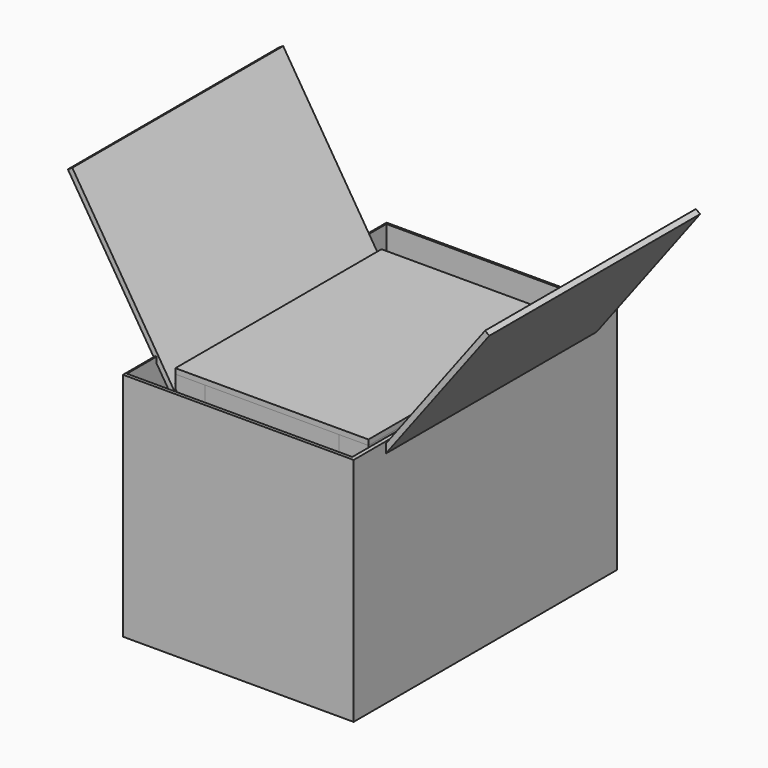
from build123d import *

# Parameters (mm, degrees)
BOX008_W               = 492
BOX008_H               = 342
BOX008_DEPTH           = 350
BOX007_W               = 500
BOX007_H               = 350
BOX007_DEPTH           = 350
CUT001_PLACEMENT_ANGLE = 90
BOX010_W               = 300
BOX010_H               = 400
BOX010_DEPTH           = 8
BOX010_PLACEMENT_ANGLE = 238
BOX012_W               = 293
BOX012_H               = 391
BOX012_DEPTH           = 8
BOX011_W               = 300
BOX011_H               = 400
BOX011_DEPTH           = 8
BOX011_PLACEMENT_ANGLE = 53
BOX017_W               = 18
BOX017_H               = 7
BOX017_DEPTH           = 16
BOX017_ROLL_ANGLE      = 45
BOX017_PLACEMENT_ANGLE = 90
BOX018_W               = 18
BOX018_H               = 7
BOX018_DEPTH           = 16
BOX018_ROLL_ANGLE      = 45
BOX018_PLACEMENT_ANGLE = 90
BOX019_W               = 18
BOX019_H               = 7
BOX019_DEPTH           = 16
BOX019_ROLL_ANGLE      = -29.799946
BOX019_PITCH_ANGLE     = 0.013011
BOX019_PLACEMENT_ANGLE = 90.048898
BOX020_W               = 18
BOX020_H               = 7
BOX020_DEPTH           = 16
BOX020_ROLL_ANGLE      = -30
BOX020_PLACEMENT_ANGLE = 90
BOX021_W               = 45
BOX021_H               = 25
BOX021_DEPTH           = 391
BOX022_W               = 45
BOX022_H               = 25
BOX022_DEPTH           = 392
BOX023_W               = 45
BOX023_H               = 25
BOX023_DEPTH           = 203
BOX024_W               = 45
BOX024_H               = 25
BOX024_DEPTH           = 203
BOX025_W               = 393
BOX025_H               = 293
BOX025_DEPTH           = 324
BOX_W                  = 400
BOX_H                  = 300
BOX_DEPTH              = 300
CUT_PLACEMENT_ANGLE    = 90


with BuildPart() as cubo008:
    # Box008 → Box008 (new body)
    with BuildSketch(Plane(origin=(3, -358, 599), x_dir=(1, 0, 0), z_dir=(0, 0, 1))):
        with Locations((246, 171)):
            Rectangle(BOX008_W, BOX008_H)
    extrude(amount=BOX008_DEPTH)


with BuildPart() as obj1:
    # Box007 → Box007 (new body)
    with BuildSketch(Plane(origin=(0, -360, 593), x_dir=(1, 0, 0), z_dir=(0, 0, 1))):
        with Locations((250, 175)):
            Rectangle(BOX007_W, BOX007_H)
    extrude(amount=BOX007_DEPTH)

    # Cut001: cut Cubo008
    add(cubo008.part, mode=Mode.SUBTRACT)


with BuildPart() as obj1_1:
    # Cut001 placement: moved
    add(obj1.part.moved(Location((375.7, 556, -546))).rotate(Axis((375.7, 556, -546), (0, 0, -1)), CUT001_PLACEMENT_ANGLE))


with BuildPart() as obj2:
    # Box010 → Box010 (new body)
    with BuildSketch(Plane.XY):
        with Locations((150, 200)):
            Rectangle(BOX010_W, BOX010_H)
    extrude(amount=BOX010_DEPTH)


with BuildPart() as obj2_1:
    # Box010 placement: moved
    add(obj2.part.moved(Location((48.98, 117, 353.41))).rotate(Axis((48.98, 117, 353.41), (0, 1, 0)), BOX010_PLACEMENT_ANGLE))


with BuildPart() as cristal:
    # Box012 → Box012 (new body)
    with BuildSketch(Plane(origin=(44, 120, 381), x_dir=(1, 0, 0), z_dir=(0, 0, 1))):
        with Locations((146.5, 195.5)):
            Rectangle(BOX012_W, BOX012_H)
    extrude(amount=BOX012_DEPTH)


with BuildPart() as obj3:
    # Box011 → Box011 (new body)
    with BuildSketch(Plane.XY):
        with Locations((150, 200)):
            Rectangle(BOX011_W, BOX011_H)
    extrude(amount=BOX011_DEPTH)


with BuildPart() as obj3_1:
    # Box011 placement: moved
    add(obj3.part.moved(Location((342.23807, 117, 349.564637))).rotate(Axis((342.23807, 117, 349.564637), (0, -1, 0)), BOX011_PLACEMENT_ANGLE))


with BuildPart() as obj4:
    # Box017 → Box017 (new body)
    with BuildSketch(Plane.XY):
        with Locations((9, 3.5)):
            Rectangle(BOX017_W, BOX017_H)
    extrude(amount=BOX017_DEPTH)


with BuildPart() as obj4_1:
    # Box017 roll: moved
    add(obj4.part.rotate(Axis((0, 0, 0), (1, 0, 0)), BOX017_ROLL_ANGLE))


with BuildPart() as obj4_2:
    # Box017 placement: moved
    add(obj4_1.part.moved(Location((336.380744, 123, 350.588312))).rotate(Axis((336.380744, 123, 350.588312), (0, 0, 1)), BOX017_PLACEMENT_ANGLE))


with BuildPart() as obj5:
    # Box018 → Box018 (new body)
    with BuildSketch(Plane.XY):
        with Locations((9, 3.5)):
            Rectangle(BOX018_W, BOX018_H)
    extrude(amount=BOX018_DEPTH)


with BuildPart() as obj5_1:
    # Box018 roll: moved
    add(obj5.part.rotate(Axis((0, 0, 0), (1, 0, 0)), BOX018_ROLL_ANGLE))


with BuildPart() as obj5_2:
    # Box018 placement: moved
    add(obj5_1.part.moved(Location((336.380744, 490, 350.588312))).rotate(Axis((336.380744, 490, 350.588312), (0, 0, 1)), BOX018_PLACEMENT_ANGLE))


with BuildPart() as obj6:
    # Box019 → Box019 (new body)
    with BuildSketch(Plane.XY):
        with Locations((9, 3.5)):
            Rectangle(BOX019_W, BOX019_H)
    extrude(amount=BOX019_DEPTH)


with BuildPart() as obj6_1:
    # Box019 roll: moved
    add(obj6.part.rotate(Axis((0, 0, 0), (1, 0, 0)), BOX019_ROLL_ANGLE))


with BuildPart() as obj6_2:
    # Box019 pitch: moved
    add(obj6_1.part.rotate(Axis((0, 0, 0), (0, 1, 0)), BOX019_PITCH_ANGLE))


with BuildPart() as obj6_3:
    # Box019 placement: moved
    add(obj6_2.part.moved(Location((53.360761, 487.010514, 354.48268))).rotate(Axis((53.360761, 487.010514, 354.48268), (0, 0, 1)), BOX019_PLACEMENT_ANGLE))


with BuildPart() as obj7:
    # Box020 → Box020 (new body)
    with BuildSketch(Plane.XY):
        with Locations((9, 3.5)):
            Rectangle(BOX020_W, BOX020_H)
    extrude(amount=BOX020_DEPTH)


with BuildPart() as obj7_1:
    # Box020 roll: moved
    add(obj7.part.rotate(Axis((0, 0, 0), (1, 0, 0)), BOX020_ROLL_ANGLE))


with BuildPart() as obj7_2:
    # Box020 placement: moved
    add(obj7_1.part.moved(Location((52.61865, 123, 354.053801))).rotate(Axis((52.61865, 123, 354.053801), (0, 0, 1)), BOX020_PLACEMENT_ANGLE))


with BuildPart() as obj8:
    # Box021 → Box021 (new body)
    with BuildSketch(Plane(origin=(44, 120, 381), x_dir=(1, 0, 0), z_dir=(0, 1, 0))):
        with Locations((22.5, 12.5)):
            Rectangle(BOX021_W, BOX021_H)
    extrude(amount=BOX021_DEPTH)


with BuildPart() as obj9:
    # Box022 → Box022 (new body)
    with BuildSketch(Plane(origin=(292, 120, 381), x_dir=(1, 0, 0), z_dir=(0, 1, 0))):
        with Locations((22.5, 12.5)):
            Rectangle(BOX022_W, BOX022_H)
    extrude(amount=BOX022_DEPTH)


with BuildPart() as obj10:
    # Box023 → Box023 (new body)
    with BuildSketch(Plane(origin=(89, 512, 381), x_dir=(0, -1, 0), z_dir=(1, 0, 0))):
        with Locations((22.5, 12.5)):
            Rectangle(BOX023_W, BOX023_H)
    extrude(amount=BOX023_DEPTH)


with BuildPart() as obj11:
    # Box024 → Box024 (new body)
    with BuildSketch(Plane(origin=(89, 165, 381), x_dir=(0, -1, 0), z_dir=(1, 0, 0))):
        with Locations((22.5, 12.5)):
            Rectangle(BOX024_W, BOX024_H)
    extrude(amount=BOX024_DEPTH)


with BuildPart() as cubo009:
    # Box025 → Box025 (new body)
    with BuildSketch(Plane(origin=(4, 3, 2), x_dir=(1, 0, 0), z_dir=(0, 0, 1))):
        with Locations((196.5, 146.5)):
            Rectangle(BOX025_W, BOX025_H)
    extrude(amount=BOX025_DEPTH)


with BuildPart() as obj12:
    # Box → Box (new body)
    with BuildSketch(Plane.XY):
        with Locations((200, 150)):
            Rectangle(BOX_W, BOX_H)
    extrude(amount=BOX_DEPTH)

    # Cut: cut Cubo009
    add(cubo009.part, mode=Mode.SUBTRACT)


with BuildPart() as obj12_1:
    # Cut placement: moved
    add(obj12.part.moved(Location((41, 517, 56))).rotate(Axis((41, 517, 56), (0, 0, -1)), CUT_PLACEMENT_ANGLE))


solid = Compound([obj1_1.part, obj2_1.part, cristal.part, obj3_1.part, obj4_2.part, obj5_2.part, obj6_3.part, obj7_2.part, obj8.part, obj9.part, obj10.part, obj11.part, obj12_1.part])
